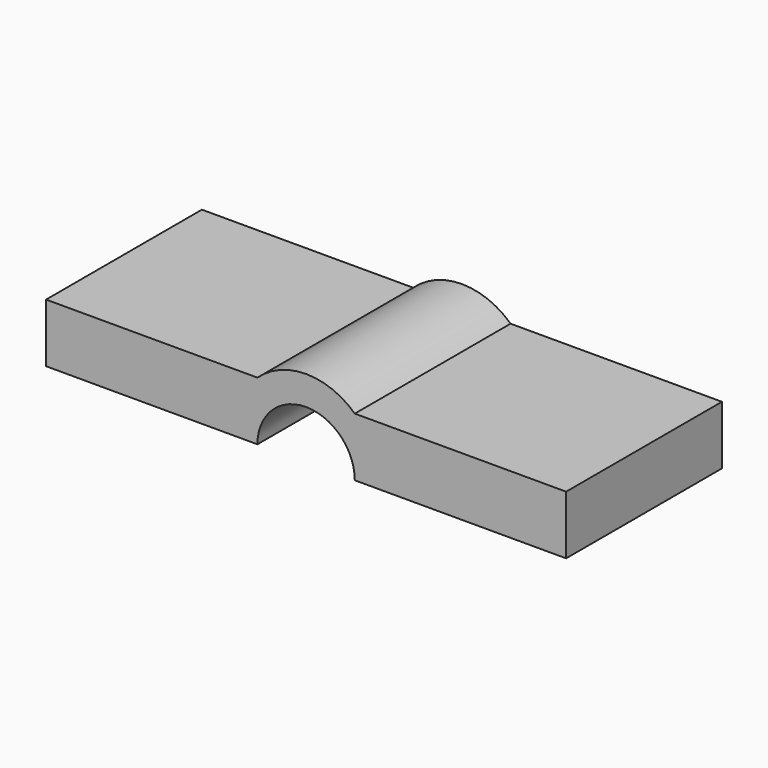
from build123d import *

# Parameters (mm, degrees)
F0_W     = 55.1280293941
F0_H     = 15.3147769226
F1_DEPTH = 50.8


with BuildPart() as f1:
    # F0 (on Front) → F1 (new body)
    with BuildSketch(Plane.XZ):
        with Locations((-40.2640146971, 7.6573884613)):
            Rectangle(F0_W, F0_H)
        with BuildLine():
            Line((-12.7, 15.3147769226), (-12.7, 0))
            ThreePointArc((-12.7, 0), (0, 12.7), (12.7, 0))
            Line((12.7, 0), (12.7, 15.3147769226))
            ThreePointArc((12.7, 15.3147769226), (0, 20.2894548004), (-12.7, 15.3147769226))
        make_face()
        with Locations((40.2640146971, 7.6573884613)):
            Rectangle(F0_W, F0_H)
    extrude(amount=F1_DEPTH)


solid = f1.part
